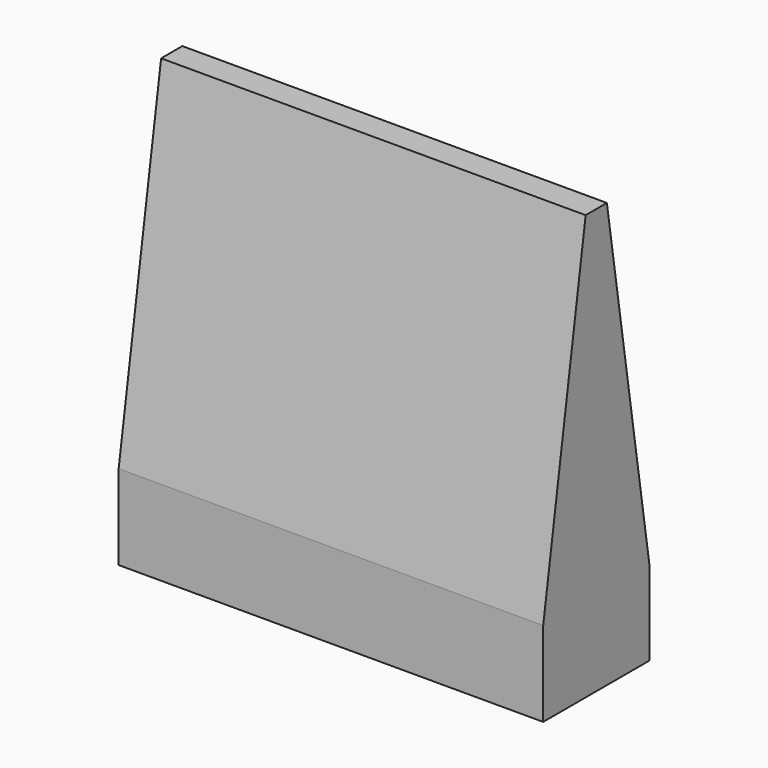
from build123d import *

# Parameters (mm, degrees)
F0_W     = 160
F0_H     = 50
F1_DEPTH = 32
F3_DEPTH = 160


with BuildPart() as f1:
    # F0 (on Top) → F1 (new body)
    with BuildSketch(Plane.XY):
        Rectangle(F0_W, F0_H)
    extrude(amount=F1_DEPTH)

    # F2 (on face) → F3 (join)
    with BuildSketch(Plane(origin=(-80, 0, 0), x_dir=(0, -1, 0), z_dir=(-1, 0, 0))):
        Polygon((5, 160), (-5, 160), (-25, 32), (25, 32), align=None)
    extrude(amount=-F3_DEPTH)


solid = f1.part
